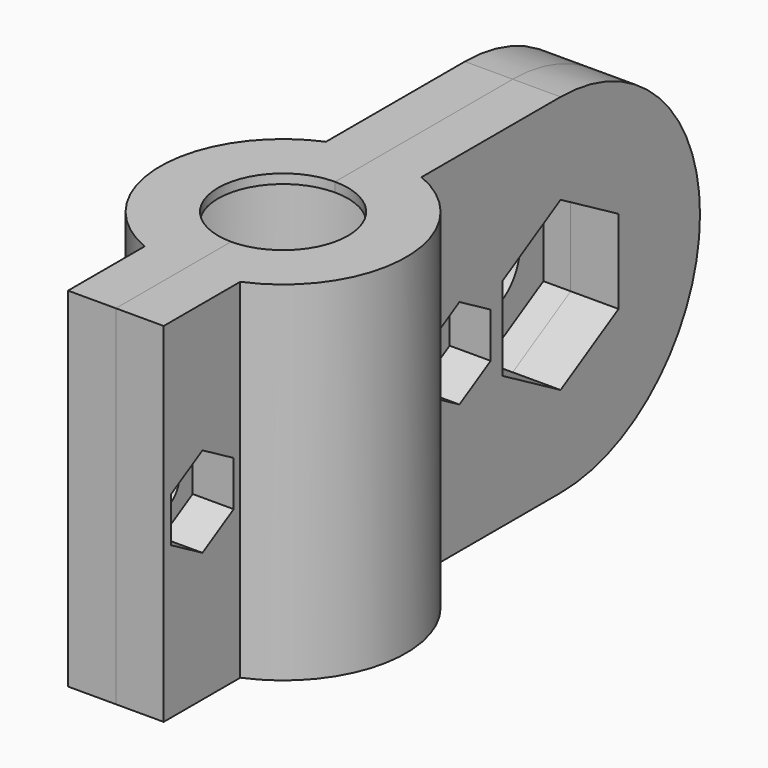
from build123d import *

# Parameters (mm, degrees)
SKETCH_R        = 4.75
PAD_DEPTH       = 25.5
SKETCH001_R     = 7.75
POCKET_DEPTH    = 24.125
POCKET001_DEPTH = 5.5
SKETCH003_R     = 3.15
POCKET002_DEPTH = 9.001
POCKET003_DEPTH = 3
SKETCH007_R     = 1.65
POCKET004_DEPTH = 39.001
SKETCH008_R     = 3
POCKET005_DEPTH = 3
POCKET006_DEPTH = 59.001
SKETCH010_W     = 13.332988
SKETCH010_H     = 67.314425
POCKET007_DEPTH = 25.501
SKETCH011_W     = 23.817345
SKETCH011_H     = 55.988949
POCKET008_DEPTH = 25.501


with BuildPart() as stepper_trolley:
    # Sketch → Pad (new body)
    with BuildSketch(Plane.XY):
        with BuildLine():
            ThreePointArc((-3.5, 8.291562), (-9, 0), (-3.5, -8.291562))
            Line((-3.5, -8.291562), (-3.5, -15.291562))
            Line((-3.5, -15.291562), (3.5, -15.291562))
            Line((3.5, -15.291562), (3.5, -8.291562))
            ThreePointArc((3.5, -8.291562), (9, 0), (3.5, 8.291562))
            Line((3.5, 35), (3.5, 8.291562))
            Line((-3.5, 35), (3.5, 35))
            Line((-3.5, 35), (-3.5, 8.291562))
        make_face()
        Circle(SKETCH_R, mode=Mode.SUBTRACT)
    extrude(amount=PAD_DEPTH)

    # Sketch001 → Pocket (cut)
    with BuildSketch(Plane.XY.offset(0.6875)):
        Circle(SKETCH001_R)
    extrude(amount=POCKET_DEPTH, mode=Mode.SUBTRACT)

    # Sketch002 (on Face3 of Pocket) → Pocket001 (cut)
    with BuildSketch(Plane.YZ.offset(3.5)):
        Polygon((21, 18.875), (15.695594, 15.8125), (15.695594, 9.6875), (21, 6.625), (26.304406, 9.6875), (26.304406, 15.8125), align=None)
    extrude(amount=-POCKET001_DEPTH, mode=Mode.SUBTRACT)

    # Sketch003 → Pocket002 (cut, through all)
    with BuildSketch(Plane.YZ):
        with Locations((21, 12.75)):
            Circle(SKETCH003_R)
    extrude(amount=-POCKET002_DEPTH, mode=Mode.SUBTRACT)

    # Sketch006 → Pocket003 (cut)
    with BuildSketch(Plane.YZ.offset(3.5)):
        Polygon((-8.892116, 11.1), (-8.892116, 14.4), (-11.75, 16.05), (-14.607884, 14.4), (-14.607884, 11.1), (-11.75, 9.45), align=None)
        Polygon((14.607884, 11.1), (14.607884, 14.4), (11.75, 16.05), (8.892116, 14.4), (8.892116, 11.1), (11.75, 9.45), align=None)
    extrude(amount=-POCKET003_DEPTH, mode=Mode.SUBTRACT)

    # Sketch007 → Pocket004 (cut, through all)
    with BuildSketch(Plane.YZ.offset(-30)):
        with Locations((-11.75, 12.75)):
            Circle(SKETCH007_R)
        with Locations((11.75, 12.75)):
            Circle(SKETCH007_R)
    extrude(amount=POCKET004_DEPTH, mode=Mode.SUBTRACT)

    # Sketch008 → Pocket005 (cut)
    with BuildSketch(Plane.YZ.offset(-3.5)):
        with Locations((-11.75, 12.75)):
            Circle(SKETCH008_R)
        with Locations((11.75, 12.75)):
            Circle(SKETCH008_R)
    extrude(amount=POCKET005_DEPTH, mode=Mode.SUBTRACT)

    # Sketch009 → Pocket006 (cut, through all)
    with BuildSketch(Plane.YZ.offset(50)):
        with BuildLine():
            ThreePointArc((21, 0), (33.75, 12.75), (21, 25.5))
            Line((21, 25.5), (41, 25.5))
            Line((41, 25.5), (41, 0))
            Line((21, 0), (41, 0))
        make_face()
    extrude(amount=-POCKET006_DEPTH, mode=Mode.SUBTRACT)


with BuildPart() as stepper_trolley_top:
    # Body001 base: copy of stepper-trolley
    add(stepper_trolley.part)

    # Sketch010 → Pocket007 (cut, through all)
    with BuildSketch(Plane.XY):
        with Locations((6.666494, 10.230849)):
            Rectangle(SKETCH010_W, SKETCH010_H)
    extrude(amount=POCKET007_DEPTH, mode=Mode.SUBTRACT)


with BuildPart() as stepper_trolley_bottom:
    # Body002 base: copy of stepper-trolley
    add(stepper_trolley.part)

    # Sketch011 → Pocket008 (cut, through all)
    with BuildSketch(Plane.XY):
        with Locations((-11.908672, 7.674474)):
            Rectangle(SKETCH011_W, SKETCH011_H)
    extrude(amount=POCKET008_DEPTH, mode=Mode.SUBTRACT)


solid = Compound([stepper_trolley_top.part, stepper_trolley_bottom.part])
